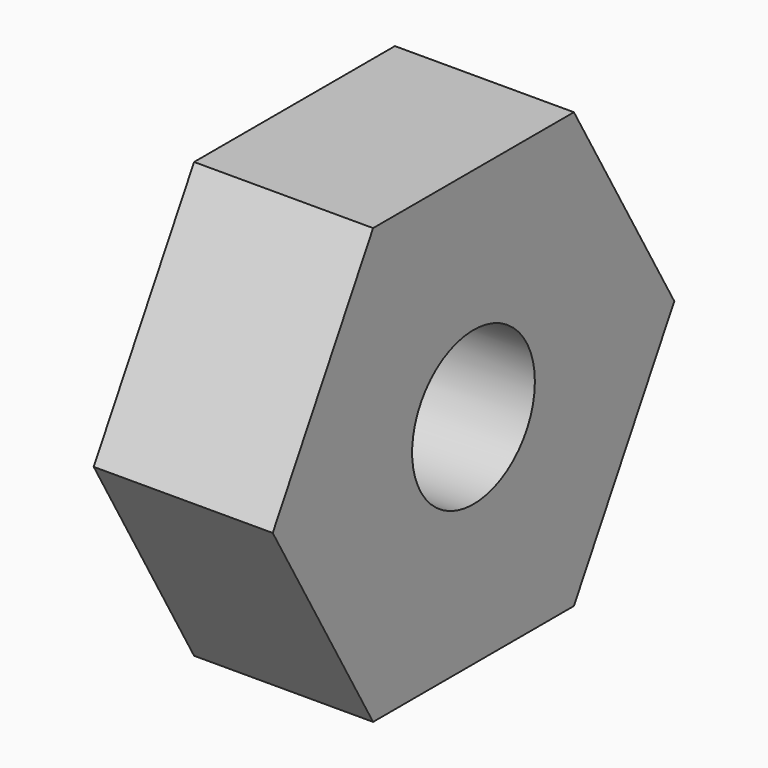
from build123d import *

# Parameters (mm, degrees)
F0_R     = 3
F1_DEPTH = 7
F3_DEPTH = 2.5


with BuildPart() as f1:
    # F0 (on Right) → F1 (new body)
    with BuildSketch(Plane.YZ):
        Polygon((4.907477, 8.5), (-4.907477, 8.5), (-9.814955, 0), (-4.907477, -8.5), (4.907477, -8.5), (9.814955, 0), align=None)
        Circle(F0_R, mode=Mode.SUBTRACT)
    extrude(amount=F1_DEPTH)

    # F2 (on face) → F3 (cut)
    with BuildSketch(Plane(origin=(0, 0, 0), x_dir=(0, -1, 0), z_dir=(-1, 0, 0))):
        with BuildLine():
            Line((6, 1.3), (-6, 1.3))
            ThreePointArc((-6, 1.3), (-7.3, 0), (-6, -1.3))
            Line((-6, -1.3), (6, -1.3))
            ThreePointArc((6, -1.3), (7.3, 0), (6, 1.3))
        make_face()
    extrude(amount=-F3_DEPTH, mode=Mode.SUBTRACT)


solid = f1.part
